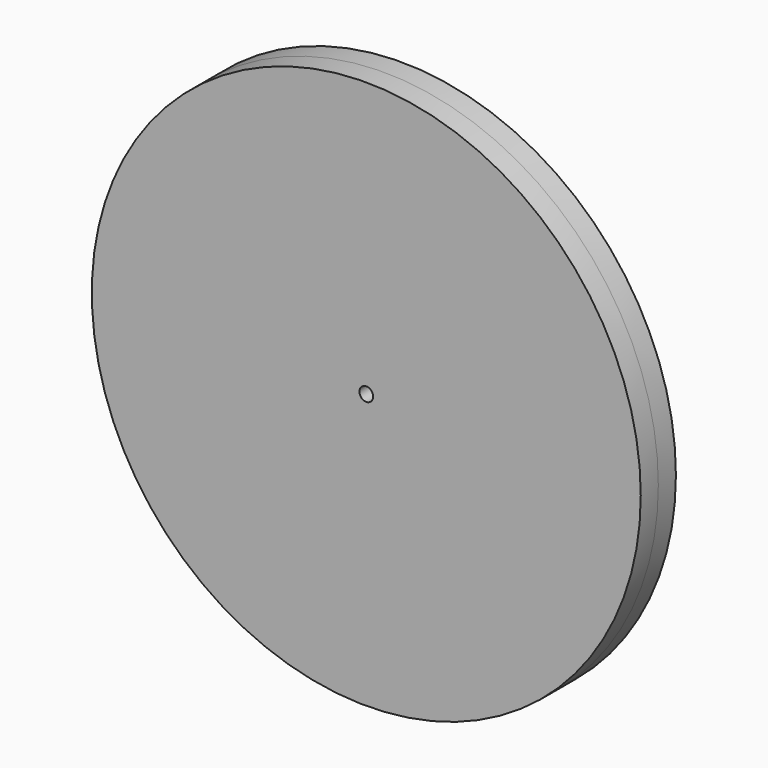
from build123d import *

# Parameters (mm, degrees)
F0_R     = 40.3563306145
F0_R_2   = 39.182154103
F1_DEPTH = 0.254
F0_R_3   = 34.3266525065
F0_R_4   = 33.3199988615
F0_R_5   = 47.5944326974
F0_R_6   = 1.1922054774
F2_DEPTH = 3.81
F3_DEPTH = 3.81
F4_DEPTH = 0.381


with BuildPart() as f1:
    # F0 (on Front) → F1 (new body)
    with BuildSketch(Plane.XZ):
        Circle(F0_R)
        Circle(F0_R_2, mode=Mode.SUBTRACT)
    extrude(amount=F1_DEPTH)


with BuildPart() as f1b:
    # F0 (on Front) → F1, piece 2 (new body)
    with BuildSketch(Plane.XZ):
        Circle(F0_R_3)
        Circle(F0_R_4, mode=Mode.SUBTRACT)
    extrude(amount=F1_DEPTH)


with BuildPart() as f2:
    # F0 (on Front) → F2 (new body)
    with BuildSketch(Plane.XZ):
        Circle(F0_R_5)
        Circle(F0_R, mode=Mode.SUBTRACT)
        Circle(F0_R)
        Circle(F0_R_2, mode=Mode.SUBTRACT)
        Circle(F0_R_2)
        Circle(F0_R_3, mode=Mode.SUBTRACT)
        Circle(F0_R_3)
        Circle(F0_R_4, mode=Mode.SUBTRACT)
        Circle(F0_R_4)
        Circle(F0_R_6, mode=Mode.SUBTRACT)
    extrude(amount=-F2_DEPTH)


with BuildPart() as f3:
    # F0 (on Front) → F3 (new body)
    with BuildSketch(Plane.XZ):
        Circle(F0_R_5)
        Circle(F0_R, mode=Mode.SUBTRACT)
        Circle(F0_R)
        Circle(F0_R_2, mode=Mode.SUBTRACT)
        Circle(F0_R_2)
        Circle(F0_R_3, mode=Mode.SUBTRACT)
        Circle(F0_R_3)
        Circle(F0_R_4, mode=Mode.SUBTRACT)
        Circle(F0_R_4)
        Circle(F0_R_6, mode=Mode.SUBTRACT)
    extrude(amount=F3_DEPTH)


with BuildPart() as f4:
    # F0 (on Front) → F4 (new body)
    with BuildSketch(Plane.XZ):
        Circle(F0_R)
        Circle(F0_R_2, mode=Mode.SUBTRACT)
    extrude(amount=F4_DEPTH)


with BuildPart() as f4b:
    # F0 (on Front) → F4, piece 2 (new body)
    with BuildSketch(Plane.XZ):
        Circle(F0_R_3)
        Circle(F0_R_4, mode=Mode.SUBTRACT)
    extrude(amount=F4_DEPTH)


with BuildPart() as f3_1:
    add(f3.part)

    # F5: cut F4
    add(f4.part, mode=Mode.SUBTRACT)

    # F6: cut F4b
    add(f4b.part, mode=Mode.SUBTRACT)


solid = Compound([f1.part, f1b.part, f2.part, f3_1.part])
